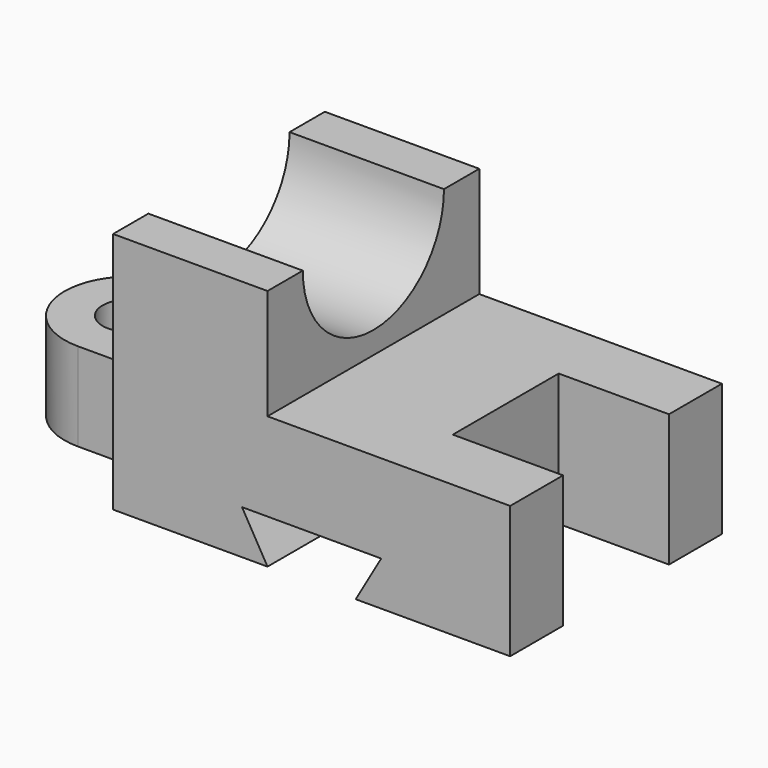
from build123d import *

# Parameters (mm, degrees)
F0_R     = 6.35
F1_DEPTH = 20
F2_DEPTH = 30
F3_DEPTH = 55
F5_DEPTH = 90.001
F7_DEPTH = 60.001


with BuildPart() as f1:
    # F0 (on Top) → F1 (new body)
    with BuildSketch(Plane.XY):
        with BuildLine():
            Line((20, -15), (20, 15))
            Line((20, 15), (0, 15))
            ThreePointArc((0, 15), (-15, 0), (0, -15))
            Line((0, -15), (20, -15))
        make_face()
        Circle(F0_R, mode=Mode.SUBTRACT)
    extrude(amount=F1_DEPTH)

    # F0 (on Top) → F2 (join)
    with BuildSketch(Plane.XY):
        Polygon((110, 30), (55, 30), (55, -30), (110, -30), (110, -15), (85, -15), (85, 15), (110, 15), align=None)
        Polygon((55, 30), (20, 30), (20, 15), (20, -15), (20, -30), (55, -30), align=None)
    extrude(amount=F2_DEPTH)

    # F0 (on Top) → F3 (join)
    with BuildSketch(Plane.XY):
        Polygon((55, 30), (20, 30), (20, 15), (20, -15), (20, -30), (55, -30), align=None)
    extrude(amount=F3_DEPTH)

    # F4 (on face) → F5 (cut, through all)
    with BuildSketch(Plane(origin=(20, 0, 0), x_dir=(0, -1, 0), z_dir=(-1, 0, 0))):
        with BuildLine():
            Line((20, 55), (-20, 55))
            ThreePointArc((-20, 55), (0, 35), (20, 55))
        make_face()
    extrude(amount=-F5_DEPTH, mode=Mode.SUBTRACT)

    # F6 (on face) → F7 (cut, through all)
    with BuildSketch(Plane.XZ.offset(30)):
        Polygon((49.226497, 10), (55, 0), (75, 0), (80.773503, 10), align=None)
    extrude(amount=-F7_DEPTH, mode=Mode.SUBTRACT)


solid = f1.part
